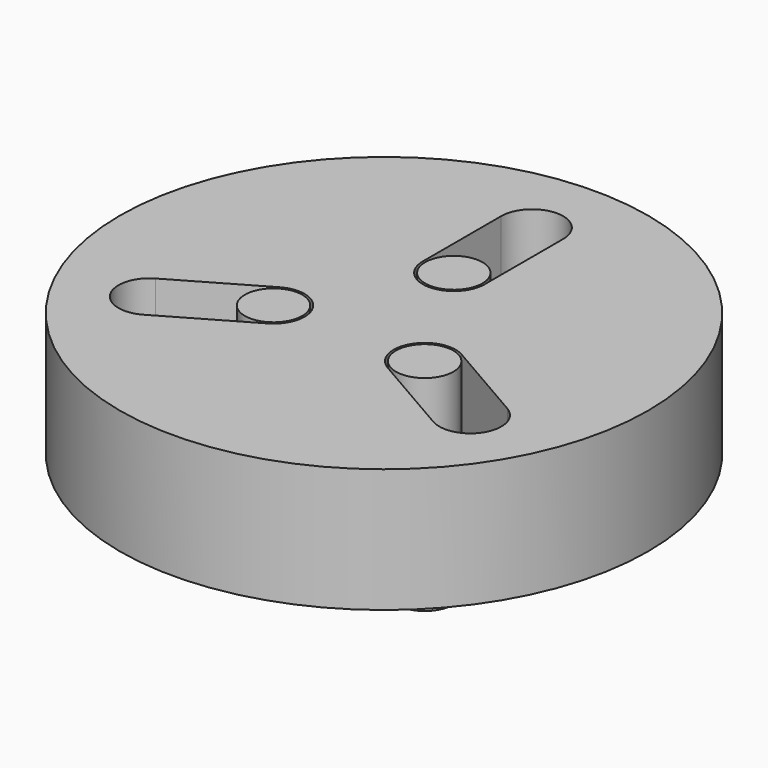
from build123d import *

# Parameters (mm, degrees)
F0_R     = 54.131436
F1_DEPTH = 25.4
F3_DEPTH = 25.401
F4_R     = 5.879706
F5_DEPTH = 42.038262


with BuildPart() as f1:
    # F0 (on Top) → F1 (new body)
    with BuildSketch(Plane.XY):
        Circle(F0_R)
    extrude(amount=F1_DEPTH)

    # F2 (on face) → F3 (cut, through all)
    with BuildSketch(Plane.XY.offset(25.4)):
        with BuildLine():
            ThreePointArc((-36.051047, -13.481734), (-38.375309, -22.155995), (-29.701047, -24.480256))
            Line((-29.701047, -24.480256), (-12.30856, -14.438699))
            ThreePointArc((-12.30856, -14.438699), (-9.984299, -5.764438), (-18.65856, -3.440176))
            Line((-18.65856, -3.440176), (-36.051047, -13.481734))
        make_face()
        with BuildLine():
            ThreePointArc((6.35, 37.96199), (0, 44.31199), (-6.35, 37.96199))
            Line((-6.35, 37.96199), (-6.35, 17.878875))
            ThreePointArc((-6.35, 17.878875), (0, 11.528875), (6.35, 17.878875))
            Line((6.35, 17.878875), (6.35, 37.96199))
        make_face()
        with BuildLine():
            ThreePointArc((29.701047, -24.480256), (38.375309, -22.155995), (36.051047, -13.481734))
            Line((36.051047, -13.481734), (18.65856, -3.440176))
            ThreePointArc((18.65856, -3.440176), (9.984299, -5.764438), (12.30856, -14.438699))
            Line((12.30856, -14.438699), (29.701047, -24.480256))
        make_face()
    extrude(amount=-F3_DEPTH, mode=Mode.SUBTRACT)


with BuildPart() as f5:
    # F4 (on face) → F5 (new body)
    with BuildSketch(Plane.XY.offset(25.4)):
        with Locations((-15.48356, -8.939438)):
            Circle(F4_R)
        with Locations((15.48356, -8.939438)):
            Circle(F4_R)
        with Locations((0, 17.878875)):
            Circle(F4_R)
    extrude(amount=-F5_DEPTH)


solid = Compound([f1.part, f5.part])
